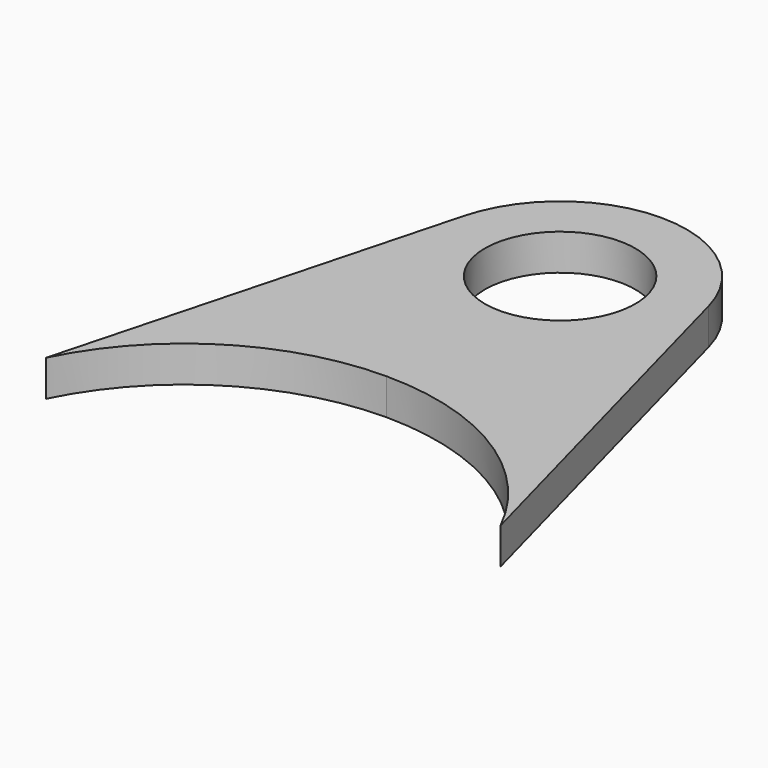
from build123d import *

# Parameters (mm, degrees)
F1_DEPTH = 3.175
F3_D     = 13.208


with BuildPart() as f1:
    # F0 (on Top) → F1 (new body)
    with BuildSketch(Plane.XY):
        with BuildLine():
            ThreePointArc((10.732924, 20.987812), (6.763441, 26.925457), (0, 29.220728))
            ThreePointArc((0, 29.220728), (-6.763441, 26.925457), (-10.732924, 20.987812))
            Line((-10.732924, 20.987812), (-19.952928, -13.377426))
            ThreePointArc((-19.952928, -13.377426), (-11.755476, -4.305186), (0, -0.941772))
            ThreePointArc((0, -0.941772), (11.755476, -4.305186), (19.952928, -13.377426))
            Line((19.952928, -13.377426), (10.732924, 20.987812))
        make_face()
    extrude(amount=F1_DEPTH)

    # F3 (through all)
    with Locations(Plane.XY.offset(3.175)):
        with Locations((0, 18.108228)):
            Hole(F3_D / 2)


solid = f1.part
